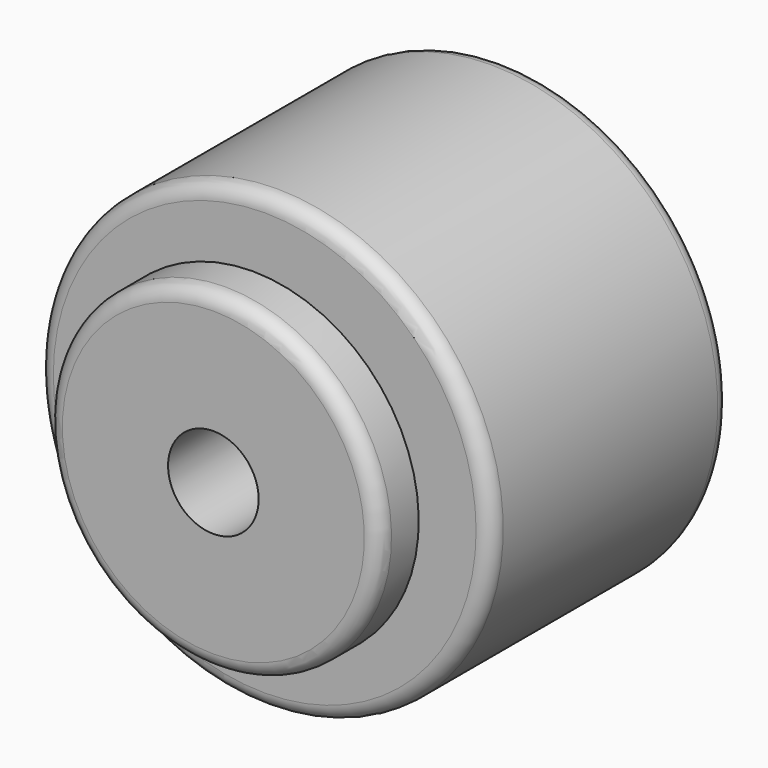
from build123d import *

# Parameters (mm, degrees)
F2_R = 2


with BuildPart() as f1:
    # F0 (on Right) → F1 (revolve)
    with BuildSketch(Plane.YZ):
        Polygon((0, 22), (0, 6), (48.5, 6), (48.5, 15), (48, 15), (48, 30), (8.5, 30), (8.5, 18), (6.5, 18), (6.5, 22), align=None)
    revolve(axis=Axis((0, 19.820221, 0), (0, 1, 0)))

    # F2
    f2_edges = [f1.edges().sort_by_distance(p)[0] for p in [
        (0, 0, -22),
        (0, 8.5, -30),
        (0, 48, -30),
    ]]
    fillet(f2_edges, radius=F2_R)


solid = f1.part
